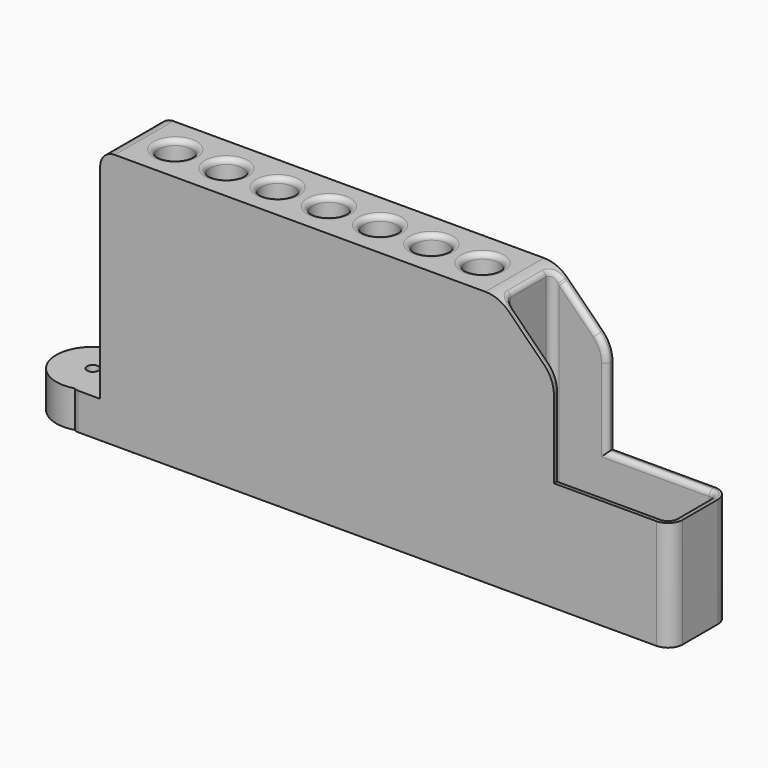
from build123d import *

# Parameters (mm, degrees)
TUBE008_R         = 10
TUBE008_R_2       = 1.6
TUBE008_DEPTH     = 10
BOX019_W          = 10
BOX019_H          = 20
BOX019_DEPTH      = 10
FILLET073_R       = 2
CHAMFER026_SIZE   = 2
CYLINDER060_R     = 1.3
CYLINDER060_DEPTH = 25
CYLINDER054_R     = 1.3
CYLINDER054_DEPTH = 25
BOX022_W          = 45
BOX022_H          = 16
BOX022_DEPTH      = 120
FILLET081_R       = 2
FILLET082_R       = 2
CYLINDER094_R     = 4.5
CYLINDER094_DEPTH = 120
FILLET137_R       = 4.4
CYLINDER093_R     = 4.5
CYLINDER093_DEPTH = 120
FILLET136_R       = 4.4
CYLINDER052_R     = 4.5
CYLINDER052_DEPTH = 120
FILLET072_R       = 4.4
CYLINDER051_R     = 4.5
CYLINDER051_DEPTH = 120
FILLET071_R       = 4.4
CYLINDER050_R     = 4.5
CYLINDER050_DEPTH = 120
FILLET070_R       = 4.4
CYLINDER049_R     = 4.5
CYLINDER049_DEPTH = 120
FILLET069_R       = 4.4
CYLINDER055_R     = 4.5
CYLINDER055_DEPTH = 120
FILLET079_R       = 4.4
CYLINDER053_R     = 1.3
CYLINDER053_DEPTH = 25
BOX021_W          = 88
BOX021_H          = 20
BOX021_DEPTH      = 30
FILLET085_R       = 4
BOX024_W          = 124
BOX024_H          = 20
BOX024_DEPTH      = 70
CHAMFER036_SIZE   = 15
FILLET138_R       = 4
FILLET139_R       = 9
FILLET140_R       = 9
FILLET149_R       = 1.4


with BuildPart() as tube008:
    # Tube008 → Tube008 (new body)
    with BuildSketch(Plane(origin=(-28, -2, 0), x_dir=(1, 0, 0), z_dir=(0, 0, 1))):
        Circle(TUBE008_R)
        Circle(TUBE008_R_2, mode=Mode.SUBTRACT)
    extrude(amount=TUBE008_DEPTH)


with BuildPart() as chamfer026:
    # Box019 → Box019 (new body)
    with BuildSketch(Plane(origin=(-26, -12, 0), x_dir=(1, 0, 0), z_dir=(0, 0, 1))):
        with Locations((5, 10)):
            Rectangle(BOX019_W, BOX019_H)
    extrude(amount=BOX019_DEPTH)

    # Fillet073
    fillet073_edges = [chamfer026.edges().sort_by_distance(p)[0] for p in [
        (-26, -12, 5),
        (-26, 8, 5),
    ]]
    fillet(fillet073_edges, radius=FILLET073_R)

    # Fusion035: union Tube008
    add(tube008.part)

    # Chamfer026
    chamfer026_edges = [chamfer026.edges().sort_by_distance(p)[0] for p in [
        (-29.6, -2, 0),
    ]]
    chamfer(chamfer026_edges, length=CHAMFER026_SIZE)


with BuildPart() as obj1:
    # Cylinder060 → Cylinder060 (new body)
    with BuildSketch(Plane(origin=(-13, -10, 60), x_dir=(1, 0, 0), z_dir=(0, 1, 0))):
        Circle(CYLINDER060_R)
    extrude(amount=CYLINDER060_DEPTH)


with BuildPart() as obj2:
    # Cylinder054 → Cylinder054 (new body)
    with BuildSketch(Plane(origin=(86, -10, 60), x_dir=(1, 0, 0), z_dir=(0, 1, 0))):
        Circle(CYLINDER054_R)
    extrude(amount=CYLINDER054_DEPTH)


with BuildPart() as fillet082:
    # Box022 → Box022 (new body)
    with BuildSketch(Plane(origin=(91, -10, 2), x_dir=(1, 0, 0), z_dir=(0, 0, 1))):
        with Locations((22.5, 8)):
            Rectangle(BOX022_W, BOX022_H)
    extrude(amount=BOX022_DEPTH)

    # Fillet081
    fillet081_edges = [fillet082.edges().sort_by_distance(p)[0] for p in [
        (91, -10, 62),
        (91, 6, 62),
        (136, -10, 62),
        (136, 6, 62),
    ]]
    fillet(fillet081_edges, radius=FILLET081_R)

    # Fillet082
    fillet082_edges = [fillet082.edges().sort_by_distance(p)[0] for p in [
        (113.5, -10, 2),
    ]]
    fillet(fillet082_edges, radius=FILLET082_R)


with BuildPart() as fillet138:
    # Cylinder094 → Cylinder094 (new body)
    with BuildSketch(Plane(origin=(78.5, -2, 2), x_dir=(1, 0, 0), z_dir=(0, 0, 1))):
        Circle(CYLINDER094_R)
    extrude(amount=CYLINDER094_DEPTH)

    # Fillet137
    fillet137_edges = [fillet138.edges().sort_by_distance(p)[0] for p in [
        (74, -2, 2),
    ]]
    fillet(fillet137_edges, radius=FILLET137_R)


with BuildPart() as fillet137:
    # Cylinder093 → Cylinder093 (new body)
    with BuildSketch(Plane(origin=(64.5, -2, 2), x_dir=(1, 0, 0), z_dir=(0, 0, 1))):
        Circle(CYLINDER093_R)
    extrude(amount=CYLINDER093_DEPTH)

    # Fillet136
    fillet136_edges = [fillet137.edges().sort_by_distance(p)[0] for p in [
        (60, -2, 2),
    ]]
    fillet(fillet136_edges, radius=FILLET136_R)


with BuildPart() as fillet072:
    # Cylinder052 → Cylinder052 (new body)
    with BuildSketch(Plane(origin=(50.5, -2, 2), x_dir=(1, 0, 0), z_dir=(0, 0, 1))):
        Circle(CYLINDER052_R)
    extrude(amount=CYLINDER052_DEPTH)

    # Fillet072
    fillet072_edges = [fillet072.edges().sort_by_distance(p)[0] for p in [
        (46, -2, 2),
    ]]
    fillet(fillet072_edges, radius=FILLET072_R)


with BuildPart() as fillet071:
    # Cylinder051 → Cylinder051 (new body)
    with BuildSketch(Plane(origin=(36.5, -2, 2), x_dir=(1, 0, 0), z_dir=(0, 0, 1))):
        Circle(CYLINDER051_R)
    extrude(amount=CYLINDER051_DEPTH)

    # Fillet071
    fillet071_edges = [fillet071.edges().sort_by_distance(p)[0] for p in [
        (32, -2, 2),
    ]]
    fillet(fillet071_edges, radius=FILLET071_R)


with BuildPart() as fillet070:
    # Cylinder050 → Cylinder050 (new body)
    with BuildSketch(Plane(origin=(22.5, -2, 2), x_dir=(1, 0, 0), z_dir=(0, 0, 1))):
        Circle(CYLINDER050_R)
    extrude(amount=CYLINDER050_DEPTH)

    # Fillet070
    fillet070_edges = [fillet070.edges().sort_by_distance(p)[0] for p in [
        (18, -2, 2),
    ]]
    fillet(fillet070_edges, radius=FILLET070_R)


with BuildPart() as fillet069:
    # Cylinder049 → Cylinder049 (new body)
    with BuildSketch(Plane(origin=(8.5, -2, 2), x_dir=(1, 0, 0), z_dir=(0, 0, 1))):
        Circle(CYLINDER049_R)
    extrude(amount=CYLINDER049_DEPTH)

    # Fillet069
    fillet069_edges = [fillet069.edges().sort_by_distance(p)[0] for p in [
        (4, -2, 2),
    ]]
    fillet(fillet069_edges, radius=FILLET069_R)


with BuildPart() as fillet079:
    # Cylinder055 → Cylinder055 (new body)
    with BuildSketch(Plane(origin=(-5.5, -2, 2), x_dir=(1, 0, 0), z_dir=(0, 0, 1))):
        Circle(CYLINDER055_R)
    extrude(amount=CYLINDER055_DEPTH)

    # Fillet079
    fillet079_edges = [fillet079.edges().sort_by_distance(p)[0] for p in [
        (-10, -2, 2),
    ]]
    fillet(fillet079_edges, radius=FILLET079_R)


with BuildPart() as fusion057:
    # Cylinder053 → Cylinder053 (new body)
    with BuildSketch(Plane(origin=(-13, -10, 15), x_dir=(1, 0, 0), z_dir=(0, 1, 0))):
        Circle(CYLINDER053_R)
    extrude(amount=CYLINDER053_DEPTH)

    # Fusion057: union obj1, obj2, Fillet082, Fillet138, Fillet137, Fillet072, Fillet071, Fillet070, Fillet069, Fillet079
    add(obj1.part)
    add(obj2.part)
    add(fillet082.part)
    add(fillet138.part)
    add(fillet137.part)
    add(fillet072.part)
    add(fillet071.part)
    add(fillet070.part)
    add(fillet069.part)
    add(fillet079.part)


with BuildPart() as fillet085:
    # Box021 → Box021 (new body)
    with BuildSketch(Plane(origin=(50, -12, 0), x_dir=(1, 0, 0), z_dir=(0, 0, 1))):
        with Locations((44, 10)):
            Rectangle(BOX021_W, BOX021_H)
    extrude(amount=BOX021_DEPTH)

    # Fillet085
    fillet085_edges = [fillet085.edges().sort_by_distance(p)[0] for p in [
        (138, -12, 15),
        (138, 8, 15),
    ]]
    fillet(fillet085_edges, radius=FILLET085_R)


with BuildPart() as holder:
    # Box024 → Box024 (new body)
    with BuildSketch(Plane(origin=(-18, -12, 0), x_dir=(1, 0, 0), z_dir=(0, 0, 1))):
        with Locations((62, 10)):
            Rectangle(BOX024_W, BOX024_H)
    extrude(amount=BOX024_DEPTH)

    # Chamfer036
    chamfer036_edges = [holder.edges().sort_by_distance(p)[0] for p in [
        (106, -2, 70),
    ]]
    chamfer(chamfer036_edges, length=CHAMFER036_SIZE)

    # Fillet138
    fillet138_edges = [holder.edges().sort_by_distance(p)[0] for p in [
        (-18, -2, 70),
    ]]
    fillet(fillet138_edges, radius=FILLET138_R)

    # Fillet139
    fillet139_edges = [holder.edges().sort_by_distance(p)[0] for p in [
        (91, -2, 70),
    ]]
    fillet(fillet139_edges, radius=FILLET139_R)

    # Fillet140
    fillet140_edges = [holder.edges().sort_by_distance(p)[0] for p in [
        (106, -2, 55),
    ]]
    fillet(fillet140_edges, radius=FILLET140_R)

    # Fusion058: union Fillet085
    add(fillet085.part)

    # Cut018: cut Fusion057
    add(fusion057.part, mode=Mode.SUBTRACT)

    # Fusion059: union Chamfer026
    add(chamfer026.part)

    # Fillet149
    fillet149_edges = [holder.edges().sort_by_distance(p)[0] for p in [
        (91, -2, 69.191617),
        (-10, -2, 70),
        (4, -2, 70),
        (18, -2, 70),
        (32, -2, 70),
        (46, -2, 70),
        (60, -2, 70),
        (74, -2, 70),
        (120, 6, 30),
    ]]
    fillet(fillet149_edges, radius=FILLET149_R)


solid = holder.part
